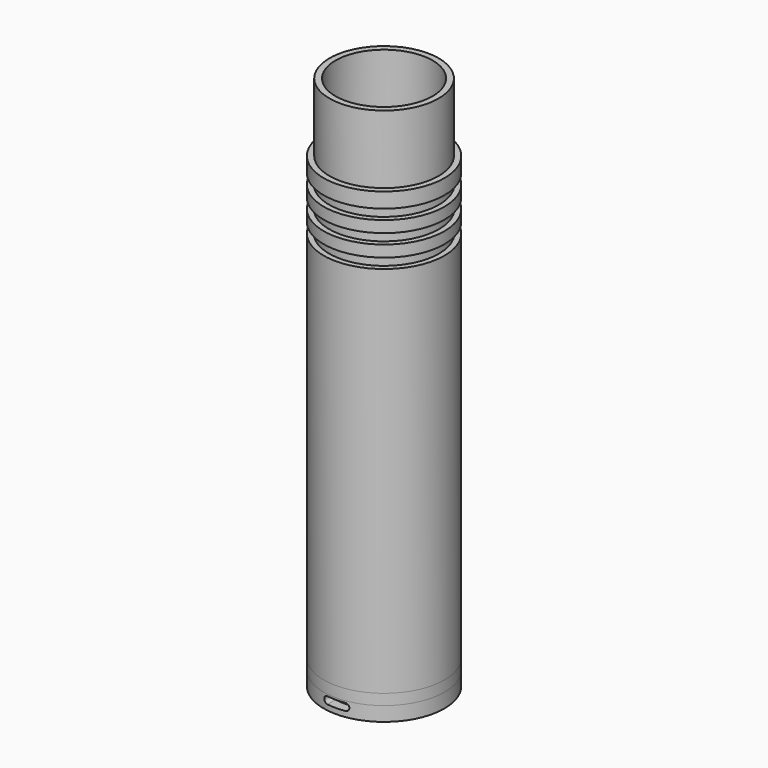
from build123d import *

# Parameters (mm, degrees)
SKETCH005_R    = 16.8
PAD004_DEPTH   = 3
PAD003_DEPTH   = 40
CYLINDER_R     = 5
CYLINDER_DEPTH = 4
SKETCH_R       = 16.8
SKETCH_R_2     = 14
PAD_DEPTH      = 4
SKETCH007_R    = 20
SKETCH007_R_2  = 15.3
PAD005_DEPTH   = 2.8
SKETCH008_R    = 20
SKETCH008_R_2  = 15.3
PAD006_DEPTH   = 2.8
SKETCH009_R    = 20
SKETCH009_R_2  = 15.3
PAD007_DEPTH   = 2.8
SKETCH002_R    = 16.8
SKETCH002_R_2  = 13.5
PAD002_DEPTH   = 123
SKETCH010_R    = 15.19
SKETCH010_R_2  = 13.5
PAD008_DEPTH   = 20


with BuildPart() as boden:
    # Sketch005 → Pad004 (new body)
    with BuildSketch(Plane.XY.offset(4)):
        Circle(SKETCH005_R)
    extrude(amount=PAD004_DEPTH)


with BuildPart() as langloch_boltsnap:
    # Sketch004 → Pad003 (new body)
    with BuildSketch(Plane(origin=(0, 20, 1.5), x_dir=(1, 0, 0), z_dir=(0, -1, 0))):
        with BuildLine():
            ThreePointArc((-2.5, 2), (-3.5, 1), (-2.5, 0))
            Line((-2.5, 0), (2.5, 0))
            ThreePointArc((2.5, 0), (3.5, 1), (2.5, 2))
            Line((-2.5, 2), (2.5, 2))
        make_face()
    extrude(amount=PAD003_DEPTH)


with BuildPart() as cut001:
    # Cylinder → Cylinder (new body)
    with BuildSketch(Plane.XY):
        Circle(CYLINDER_R)
    extrude(amount=CYLINDER_DEPTH)

    # Cut001: cut Langloch Boltsnap
    add(langloch_boltsnap.part, mode=Mode.SUBTRACT)


with BuildPart() as obj1:
    # Sketch → Pad (new body)
    with BuildSketch(Plane.XY):
        Circle(SKETCH_R)
        Circle(SKETCH_R_2, mode=Mode.SUBTRACT)
    extrude(amount=PAD_DEPTH)

    # Cut: cut Langloch Boltsnap
    add(langloch_boltsnap.part, mode=Mode.SUBTRACT)

    # Fusion: union Cut001
    add(cut001.part)


with BuildPart() as pad005:
    # Sketch007 → Pad005 (new body)
    with BuildSketch(Plane.XY.offset(123)):
        Circle(SKETCH007_R)
        Circle(SKETCH007_R_2, mode=Mode.SUBTRACT)
    extrude(amount=PAD005_DEPTH)


with BuildPart() as fusion001:
    # Sketch008 → Pad006 (new body)
    with BuildSketch(Plane.XY.offset(117)):
        Circle(SKETCH008_R)
        Circle(SKETCH008_R_2, mode=Mode.SUBTRACT)
    extrude(amount=PAD006_DEPTH)

    # Fusion001: union Pad005
    add(pad005.part)


with BuildPart() as obj2:
    # Sketch009 → Pad007 (new body)
    with BuildSketch(Plane.XY.offset(111)):
        Circle(SKETCH009_R)
        Circle(SKETCH009_R_2, mode=Mode.SUBTRACT)
    extrude(amount=PAD007_DEPTH)

    # Fusion002: union Fusion001
    add(fusion001.part)


with BuildPart() as cut002:
    # Sketch002 → Pad002 (new body)
    with BuildSketch(Plane.XY.offset(7)):
        Circle(SKETCH002_R)
        Circle(SKETCH002_R_2, mode=Mode.SUBTRACT)
    extrude(amount=PAD002_DEPTH)

    # Cut002: cut obj2
    add(obj2.part, mode=Mode.SUBTRACT)


with BuildPart() as pad008:
    # Sketch010 → Pad008 (new body)
    with BuildSketch(Plane.XY.offset(129)):
        Circle(SKETCH010_R)
        Circle(SKETCH010_R_2, mode=Mode.SUBTRACT)
    extrude(amount=PAD008_DEPTH)


solid = Compound([boden.part, obj1.part, cut002.part, pad008.part])
